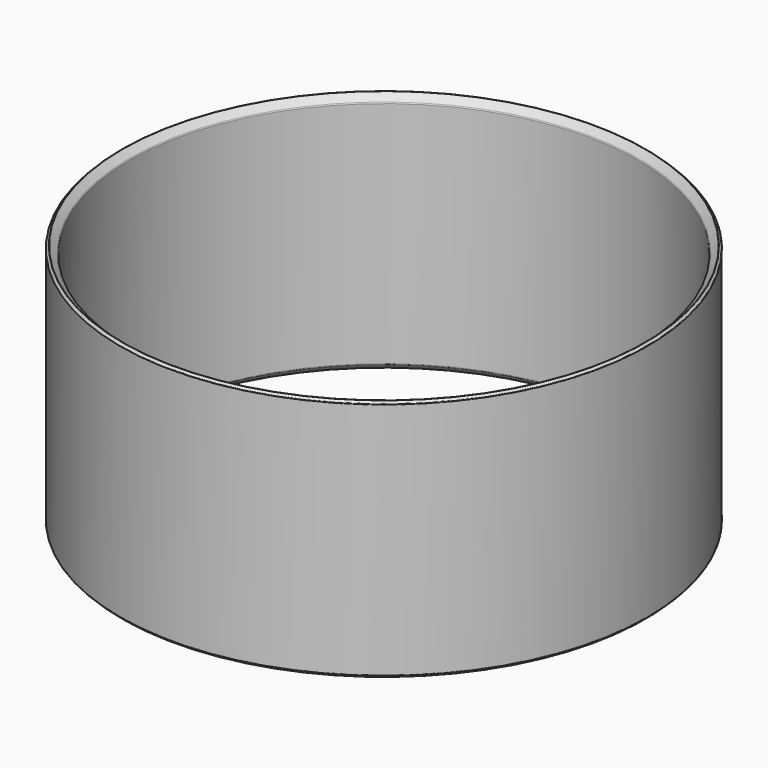
from build123d import *

# Parameters (mm, degrees)
F0_R     = 165.1
F0_R_2   = 159.1
F1_DEPTH = 76.2


with BuildPart() as f1:
    # F0 (on Top) → F1 (new body, symmetric)
    with BuildSketch(Plane.XY):
        Circle(F0_R)
        Circle(F0_R_2, mode=Mode.SUBTRACT)
    extrude(amount=F1_DEPTH, both=True)

    # F2 (on Front) → F3 (revolve, cut)
    with BuildSketch(Plane.XZ):
        with BuildLine():
            Line((-165.1, 76.2), (-165.1, 74.575736))
            ThreePointArc((-165.1, 74.575736), (-165.077164, 74.690541), (-165.012132, 74.787868))
            Line((-165.012132, 74.787868), (-163.702337, 76.097663))
            ThreePointArc((-163.702337, 76.097663), (-163.598954, 76.141573), (-163.494067, 76.10139))
            Line((-163.494067, 76.10139), (-159.418645, 72.307689))
            ThreePointArc((-159.418645, 72.307689), (-159.183115, 71.974888), (-159.1, 71.575736))
            Line((-159.1, 71.575736), (-159.1, 76.2))
            Line((-159.1, 76.2), (-165.1, 76.2))
        make_face()
        with BuildLine():
            Line((-165.1, -74.575736), (-165.1, -76.2))
            Line((-165.1, -76.2), (-159.1, -76.2))
            Line((-159.1, -76.2), (-159.1, -71.575736))
            ThreePointArc((-159.1, -71.575736), (-159.183115, -71.974888), (-159.418645, -72.307689))
            Line((-159.418645, -72.307689), (-163.494067, -76.10139))
            ThreePointArc((-163.494067, -76.10139), (-163.598954, -76.141573), (-163.702337, -76.097663))
            Line((-163.702337, -76.097663), (-165.012132, -74.787868))
            ThreePointArc((-165.012132, -74.787868), (-165.077164, -74.690541), (-165.1, -74.575736))
        make_face()
    revolve(axis=Axis((0, 0, 0.296205), (0, 0, -1)), mode=Mode.SUBTRACT)


solid = f1.part
